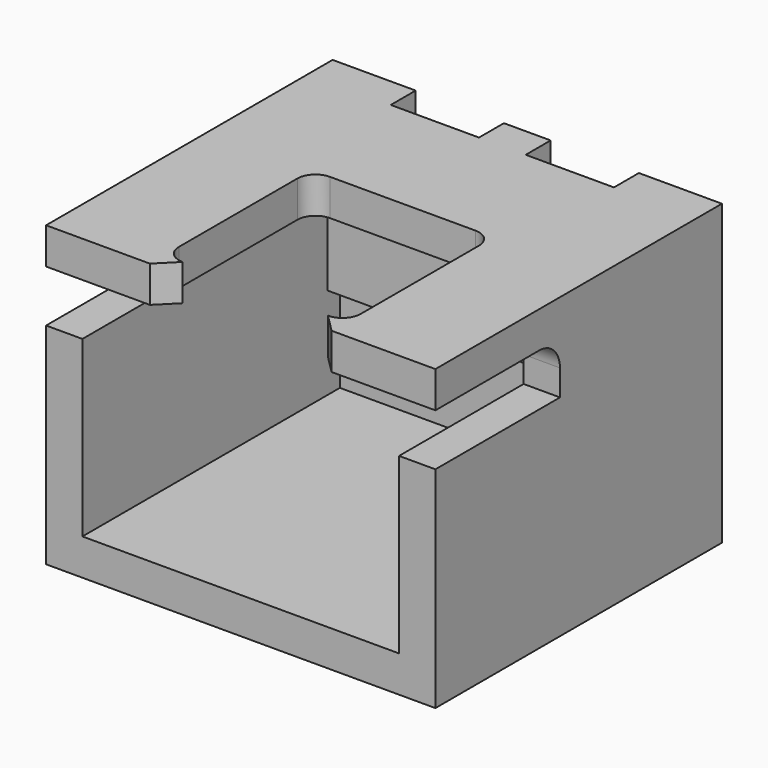
from build123d import *

# Parameters (mm, degrees)
SKETCH_W        = 7.5
SKETCH_H        = 6.9
PAD_DEPTH       = 5.75
THICKNESS_T     = -0.7
POCKET_DEPTH    = 0.7
POCKET001_DEPTH = 7.501
PAD004_DEPTH    = 6.1
SKETCH005_W     = 1.7
SKETCH005_H     = 0.6
POCKET002_DEPTH = 7.001
PAD005_DEPTH    = 5.9


with BuildPart() as part:
    # Sketch → Pad (new body)
    with BuildSketch(Plane.XY):
        Rectangle(SKETCH_W, SKETCH_H)
    extrude(amount=PAD_DEPTH)

    # Thickness
    thickness_openings = [part.faces().sort_by_distance(p)[0] for p in [
        (0, -3.45, 2.875),
    ]]
    offset(amount=THICKNESS_T, openings=thickness_openings, kind=Kind.INTERSECTION)

    # Sketch001 (on Face5 of Thickness) → Pocket (cut)
    with BuildSketch(Plane.XY.offset(5.75)):
        with BuildLine():
            Line((1.75, -2.75), (1.75, 0.1))
            ThreePointArc((1.75, 0.1), (1.647487, 0.347487), (1.4, 0.45))
            Line((1.4, 0.45), (-1.4, 0.45))
            ThreePointArc((-1.4, 0.45), (-1.647487, 0.347487), (-1.75, 0.1))
            Line((-1.75, 0.1), (-1.75, -2.75))
            ThreePointArc((-1.75, -2.75), (-1.647487, -2.997487), (-1.4, -3.1))
            Line((-1.4, -3.1), (-1.75, -3.45))
            Line((-1.75, -3.45), (1.75, -3.45))
            Line((1.4, -3.1), (1.75, -3.45))
            ThreePointArc((1.4, -3.1), (1.647487, -2.997487), (1.75, -2.75))
        make_face()
    extrude(amount=-POCKET_DEPTH, mode=Mode.SUBTRACT)

    # Sketch002 (on Face2 of Pocket) → Pocket001 (cut, through all)
    with BuildSketch(Plane(origin=(-3.75, 0, 0), x_dir=(0, -1, 0), z_dir=(-1, 0, 0))):
        with BuildLine():
            Line((0.95, 5.05), (3.45, 5.05))
            Line((3.45, 5.05), (3.45, 4.05))
            Line((3.45, 4.05), (0.45, 4.05))
            Line((0.45, 4.55), (0.45, 4.05))
            ThreePointArc((0.95, 5.05), (0.596447, 4.903553), (0.45, 4.55))
        make_face()
    extrude(amount=-POCKET001_DEPTH, mode=Mode.SUBTRACT)

    # Sketch008 → Pad004 (join)
    with BuildSketch(Plane(origin=(3.05, 0, 0), x_dir=(0, -1, 0), z_dir=(-1, 0, 0))):
        Polygon((-2.75, 5.05), (-2.45, 5.05), (-2.45, 2.473205), (-2.75, 2.3), align=None)
    extrude(amount=PAD004_DEPTH)

    # Sketch005 → Pocket002 (cut, through all)
    with BuildSketch(Plane.XY.offset(7)):
        with Locations((-1.3, 3.15)):
            Rectangle(SKETCH005_W, SKETCH005_H)
        with Locations((1.3, 3.15)):
            Rectangle(SKETCH005_W, SKETCH005_H)
    extrude(amount=-POCKET002_DEPTH, mode=Mode.SUBTRACT)

    # Sketch009 (on ShapeBinder) → Pad005 (join)
    with BuildSketch(Plane(origin=(2.15, 0, 0), x_dir=(0, -1, 0), z_dir=(-1, 0, 0))):
        Polygon((-2.85, 5.75), (-3.45, 4.4), (-3.45, 2.5), (-2.85, 0), align=None)
    extrude(amount=PAD005_DEPTH)


solid = part.part
